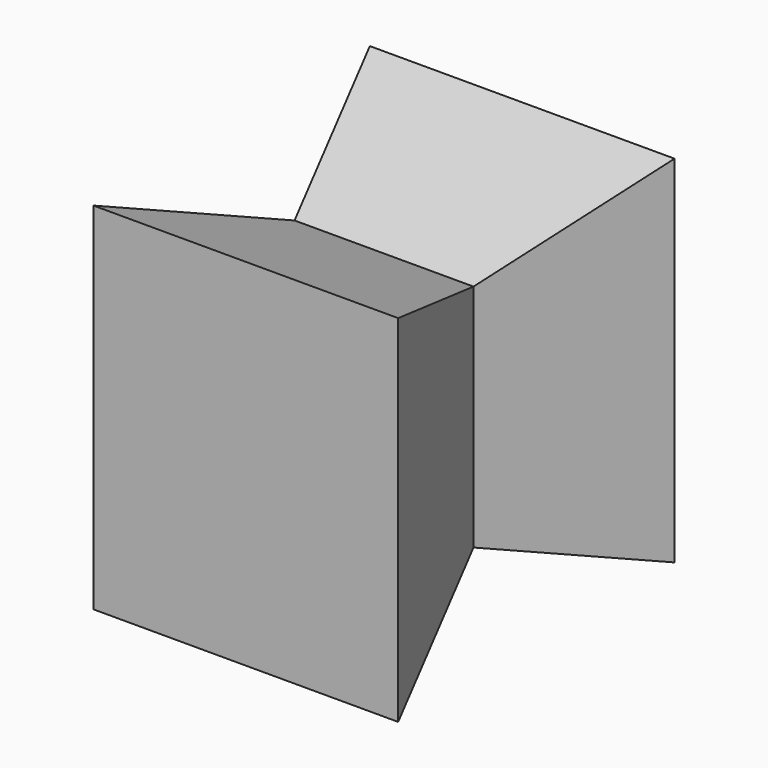
from build123d import *

# Parameters (mm, degrees)
F0_W     = 26.5504028648
F0_H     = 34.0849794447
F1_DEPTH = 25.62273
F1_TAPER = -20


with BuildPart() as f1:
    # F0 (on Front) → F1 (new body, symmetric)
    with BuildSketch(Plane.XZ):
        with Locations((13.2752014324, 17.0424897224)):
            Rectangle(F0_W, F0_H)
    extrude(amount=F1_DEPTH, both=True, taper=F1_TAPER)


solid = f1.part
